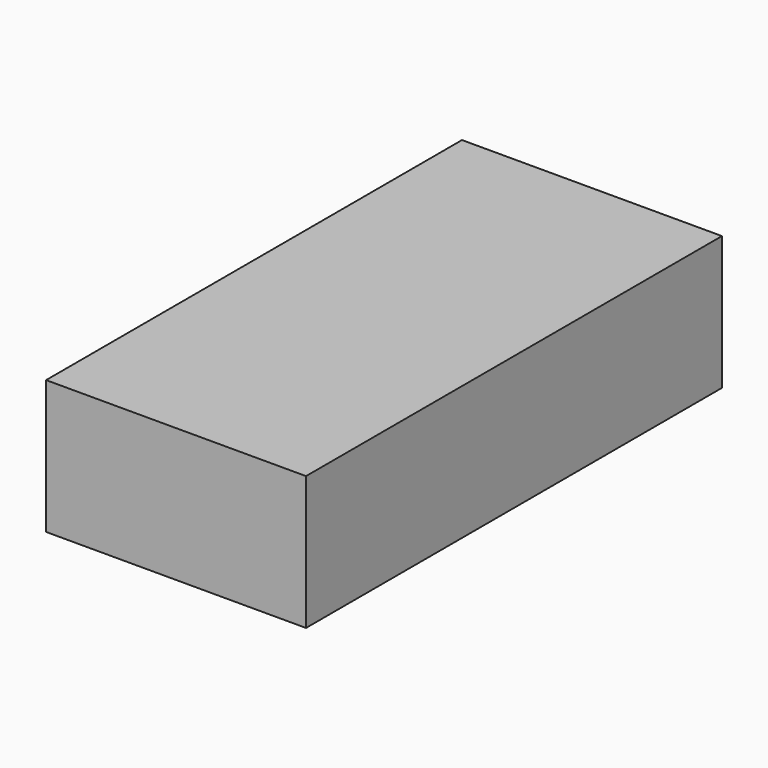
from build123d import *

# Parameters (mm, degrees)
F0_W     = 889
F0_H     = 457.2
F1_DEPTH = 1778
F2_R     = 2.4765
F3_DEPTH = 38.1
F4_R     = 6.7183
F5_DEPTH = 4.826
F7_DEPTH = 38.1


with BuildPart() as f1:
    # F0 (on Front) → F1 (new body)
    with BuildSketch(Plane.XZ):
        with Locations((390.8216476142, 214.8072309479)):
            Rectangle(F0_W, F0_H)
    extrude(amount=F1_DEPTH)


with BuildPart() as f3:
    # F2 (on Right) → F3 (new body)
    with BuildSketch(Plane.YZ):
        with Locations((43.4802956879, 42.7989289165)):
            Circle(F2_R)
    extrude(amount=-F3_DEPTH)

    # F4 (on face) → F5 (join)
    with BuildSketch(Plane.YZ):
        with Locations((43.4802956879, 42.7989289165)):
            Circle(F4_R)
    extrude(amount=F5_DEPTH)


with BuildPart() as f6_1:
    # F6: copy of F3
    add(f3.part.moved(Location((0, 76.2, 0))))

    # F7 (add): a face of the model
    f7_faces = [f6_1.faces().sort_by_distance(p)[0] for p in [
        (-38.1, 119.6802956879, 42.7989289165),
    ]]
    extrude(f7_faces, amount=F7_DEPTH)


solid = Compound([f1.part, f3.part, f6_1.part])
